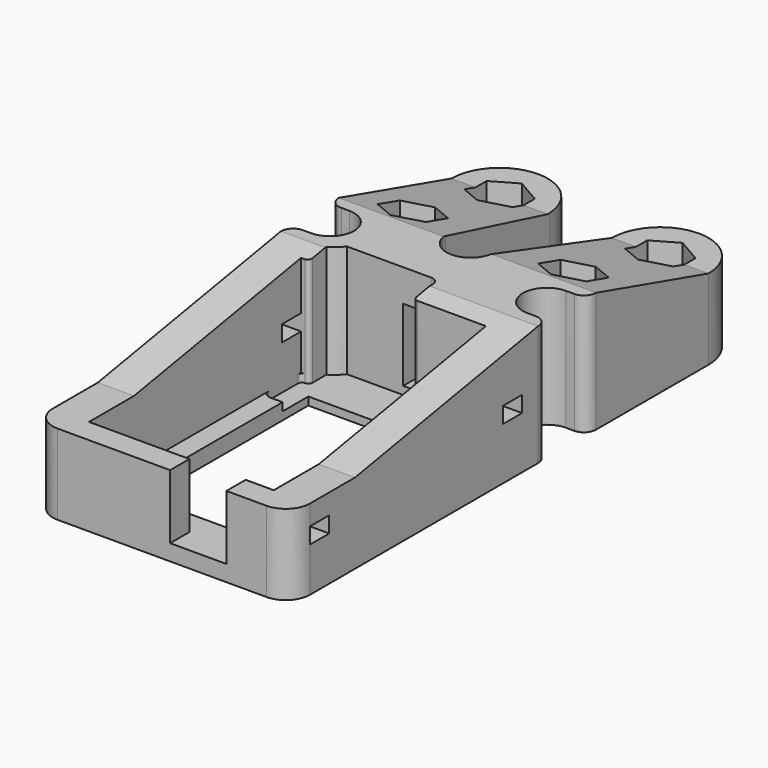
from build123d import *

# Parameters (mm, degrees)
PAD_DEPTH       = 15
SKETCH001_W     = 23
SKETCH001_H     = 33
POCKET_DEPTH    = 13
SKETCH002_R     = 1.5
HOLE_DEPTH      = 25
POCKET001_DEPTH = 8
POCKET002_DEPTH = 5
SKETCH006_W     = 7
SKETCH006_H     = 8
POCKET004_DEPTH = 5
SKETCH007_W     = 3
SKETCH007_H     = 2
POCKET005_DEPTH = 50
POCKET006_DEPTH = 50
FILLET_R        = 0.7
POCKET008_DEPTH = 14
SKETCH009_W     = 4
SKETCH009_H     = 9
POCKET009_DEPTH = 6.5
FILLET001_R     = 0.7
FILLET002_R     = 0.7


with BuildPart() as part:
    # Sketch → Pad (new body)
    with BuildSketch(Plane.XY):
        with BuildLine():
            ThreePointArc((14.5, 46), (15.56066, 46.43934), (16, 47.5))
            Line((16, 47.5), (16, 65))
            ThreePointArc((16, 65), (14.242641, 69.242641), (10, 71))
            Line((-10, 71), (10, 71))
            ThreePointArc((-10, 71), (-14.242641, 69.242641), (-16, 65))
            Line((-16, 47.5), (-16, 65))
            ThreePointArc((-16, 47.5), (-15.56066, 46.43934), (-14.5, 46))
            Line((-13.5, 46), (-14.5, 46))
            ThreePointArc((-13.5, 40), (-10.5, 43), (-13.5, 46))
            Line((-13.5, 40), (-14.5, 40))
            ThreePointArc((-14.5, 40), (-15.56066, 39.56066), (-16, 38.5))
            Line((-16, 3), (-16, 38.5))
            ThreePointArc((-16, 3), (-15.12132, 0.87868), (-13, 0))
            Line((13, 0), (-13, 0))
            ThreePointArc((13, 0), (15.12132, 0.87868), (16, 3))
            Line((16, 3), (16, 38.5))
            ThreePointArc((16, 38.5), (15.56066, 39.56066), (14.5, 40))
            Line((14.5, 40), (13.5, 40))
            ThreePointArc((13.5, 46), (10.5, 43), (13.5, 40))
            Line((14.5, 46), (13.5, 46))
        make_face()
    extrude(amount=PAD_DEPTH)

    # Sketch001 (on Face22 of Pad) → Pocket (cut)
    with BuildSketch(Plane.XY.offset(15)):
        with Locations((0, 19.5)):
            Rectangle(SKETCH001_W, SKETCH001_H)
        with BuildLine():
            Line((-4.010044, 65.347033), (-2.994978, 47.826484))
            ThreePointArc((-2.994978, 47.826484), (0, 45), (2.994978, 47.826484))
            Line((4.010044, 65.347033), (2.994978, 47.826484))
            ThreePointArc((10, 71), (5.881881, 69.363611), (4.010044, 65.347033))
            Line((10, 74.59), (10, 71))
            Line((-10, 74.59), (10, 74.59))
            Line((-10, 71), (-10, 74.59))
            ThreePointArc((-4.010044, 65.347033), (-5.881881, 69.363611), (-10, 71))
        make_face()
    extrude(amount=-POCKET_DEPTH, mode=Mode.SUBTRACT)

    # Sketch002 (on Face5 of Pocket) → Hole (cut)
    with BuildSketch(Plane.XY.offset(15)):
        with Locations((-10, 65)):
            Circle(SKETCH002_R)
        with Locations((10, 65)):
            Circle(SKETCH002_R)
        with Locations((-10, 51.5)):
            Circle(SKETCH002_R)
        with Locations((10, 51.5)):
            Circle(SKETCH002_R)
    extrude(amount=-HOLE_DEPTH, mode=Mode.SUBTRACT)

    # Sketch003 (on Face5 of Hole) → Pocket001 (cut)
    with BuildSketch(Plane.XY.offset(15)):
        Polygon((-7, 63.267949), (-7, 66.732051), (-10, 68.464102), (-13, 66.732051), (-13, 63.267949), (-10, 61.535898), align=None)
        Polygon((-7, 49.767949), (-7, 53.232051), (-10, 54.964102), (-13, 53.232051), (-13, 49.767949), (-10, 48.035898), align=None)
        Polygon((13, 49.767949), (13, 53.232051), (10, 54.964102), (7, 53.232051), (7, 49.767949), (10, 48.035898), align=None)
        Polygon((13, 63.267949), (13, 66.732051), (10, 68.464102), (7, 66.732051), (7, 63.267949), (10, 61.535898), align=None)
    extrude(amount=-POCKET001_DEPTH, mode=Mode.SUBTRACT)

    # Sketch004 (on Face65 of Pocket001) → Pocket002 (cut)
    with BuildSketch(Plane.XY.offset(2)):
        Polygon((-11.5, 5), (-3.5, 5), (-3.5, 6), (11.5, 6), (11.5, 28), (9, 28), (9, 34), (-9, 34), (-9, 14), (-11.5, 14), align=None)
    extrude(amount=-POCKET002_DEPTH, mode=Mode.SUBTRACT)

    # Sketch006 → Pocket004 (cut)
    with BuildSketch(Plane.XZ):
        with Locations((4.5, 6)):
            Rectangle(SKETCH006_W, SKETCH006_H)
    extrude(amount=-POCKET004_DEPTH, mode=Mode.SUBTRACT)

    # Sketch007 (on Face12 of Pocket004) → Pocket005 (cut)
    with BuildSketch(Plane.YZ.offset(16)):
        with Locations((4.5, 6.5)):
            Rectangle(SKETCH007_W, SKETCH007_H)
        with Locations((34.5, 7.5)):
            Rectangle(SKETCH007_W, SKETCH007_H)
    extrude(amount=-POCKET005_DEPTH, mode=Mode.SUBTRACT)

    # Sketch008 (on Face12 of Pocket005) → Pocket006 (cut)
    with BuildSketch(Plane.YZ.offset(16)):
        Polygon((0, 10), (10, 10), (38.5, 15), (47.5, 15), (65, 10), (71, 10), (71, 16.83), (0, 16.83), align=None)
    extrude(amount=-POCKET006_DEPTH, mode=Mode.SUBTRACT)

    # Fillet
    fillet_edges = [part.edges().sort_by_distance(p)[0] for p in [
        (-9, 14, 1),
        (-11.5, 14, 1),
    ]]
    fillet(fillet_edges, radius=FILLET_R)

    # MirroredSketch → Pocket008 (cut)
    with BuildSketch(Plane.XY.offset(15)):
        with BuildLine():
            Line((2.5, 30), (-10.5, 30))
            ThreePointArc((-11.5, 31), (-11.207107, 30.292893), (-10.5, 30))
            Line((-11.5, 31), (-11.5, 35.5))
            ThreePointArc((-11, 36), (-11.353553, 35.853553), (-11.5, 35.5))
            Line((-11, 36), (-10.99, 36))
            ThreePointArc((-10.99, 36), (-10.636447, 36.146447), (-10.49, 36.5))
            Line((-10.49, 36.5), (-10.49, 38.675662))
            ThreePointArc((-10.49, 38.675662), (-9.67833, 39.262821), (-9, 40))
            Line((1.49, 40), (-9, 40))
            ThreePointArc((2.49, 39), (2.197107, 39.707107), (1.49, 40))
            Line((2.49, 36.5), (2.49, 39))
            ThreePointArc((2.49, 36.5), (2.636447, 36.146447), (2.99, 36))
            Line((3, 36), (2.99, 36))
            ThreePointArc((3.5, 35.5), (3.353553, 35.853553), (3, 36))
            Line((3.5, 31), (3.5, 35.5))
            ThreePointArc((2.5, 30), (3.207107, 30.292893), (3.5, 31))
        make_face()
    extrude(amount=-POCKET008_DEPTH, mode=Mode.SUBTRACT)

    # Sketch009 (on Face88 of Pocket008) → Pocket009 (cut, symmetric)
    with BuildSketch(Plane.XZ.offset(-40)):
        with Locations((0, 6.5)):
            Rectangle(SKETCH009_W, SKETCH009_H)
    extrude(amount=POCKET009_DEPTH, both=True, mode=Mode.SUBTRACT)

    # Fillet001
    fillet001_edges = [part.edges().sort_by_distance(p)[0] for p in [
        (9, 28, 1),
    ]]
    fillet(fillet001_edges, radius=FILLET001_R)

    # Fillet002
    fillet002_edges = [part.edges().sort_by_distance(p)[0] for p in [
        (-3.5, 6, 1),
    ]]
    fillet(fillet002_edges, radius=FILLET002_R)


solid = part.part
